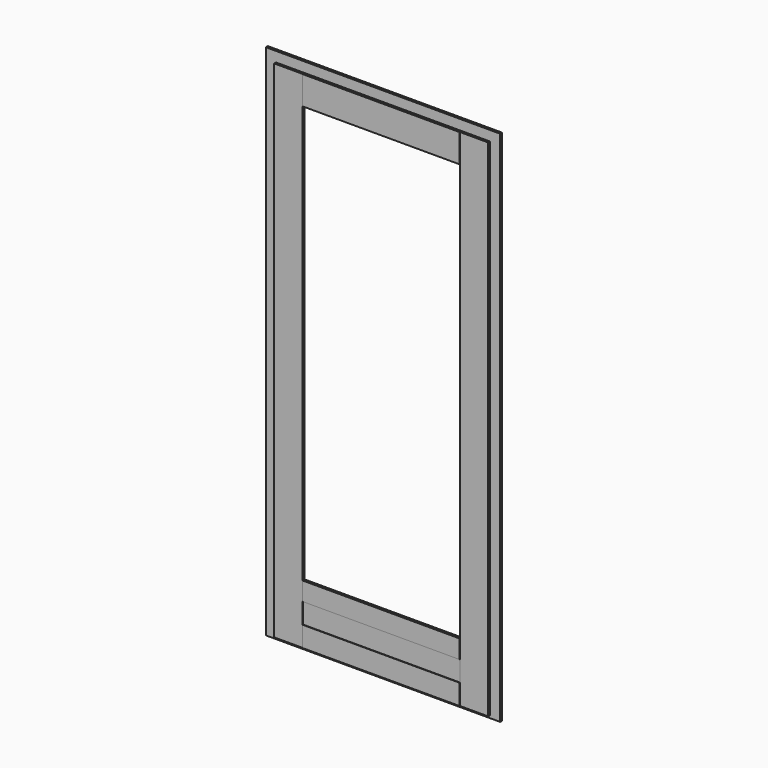
from build123d import *

# Parameters (mm, degrees)
F0_W     = 950
F0_H     = 2100
F0_W_2   = 786
F0_H_2   = 1998
F1_DEPTH = 10
F2_W     = 868
F2_H     = 2049
F2_W_2   = 786
F2_H_2   = 1998
F2_W_3   = 638
F2_H_3   = 1693
F3_DEPTH = 10
F4_W     = 115
F4_H     = 2049
F5_DEPTH = 1
F6_W     = 638
F6_H     = 83
F7_DEPTH = 2


with BuildPart() as f1:
    # F0 (on Front) → F1 (new body)
    with BuildSketch(Plane.XZ):
        with Locations((475, 1050)):
            Rectangle(F0_W, F0_H)
        with Locations((475, 1019)):
            Rectangle(F0_W_2, F0_H_2, mode=Mode.SUBTRACT)
    extrude(amount=F1_DEPTH)


with BuildPart() as f3:
    # F2 (on face) → F3 (new body)
    with BuildSketch(Plane.XZ.offset(10)):
        with Locations((475, 1034.5)):
            Rectangle(F2_W, F2_H)
        with Locations((475, 1019)):
            Rectangle(F2_W_2, F2_H_2, mode=Mode.SUBTRACT)
        with Locations((475, 1034.5)):
            Rectangle(F2_W, F2_H)
        with Locations((475, 1097.5)):
            Rectangle(F2_W_3, F2_H_3, mode=Mode.SUBTRACT)
    extrude(amount=F3_DEPTH)

    # F4 (on face) → F5 (cut)
    with BuildSketch(Plane.XZ.offset(20)):
        with Locations((98.5, 1034.5)):
            Rectangle(F4_W, F4_H)
        with Locations((851.5, 1034.5)):
            Rectangle(F4_W, F4_H)
    extrude(amount=-F5_DEPTH, mode=Mode.SUBTRACT)

    # F6 (on face) → F7 (cut)
    with BuildSketch(Plane.XZ.offset(20)):
        with Locations((475, 134.5)):
            Rectangle(F6_W, F6_H)
    extrude(amount=-F7_DEPTH, mode=Mode.SUBTRACT)


solid = Compound([f1.part, f3.part])
